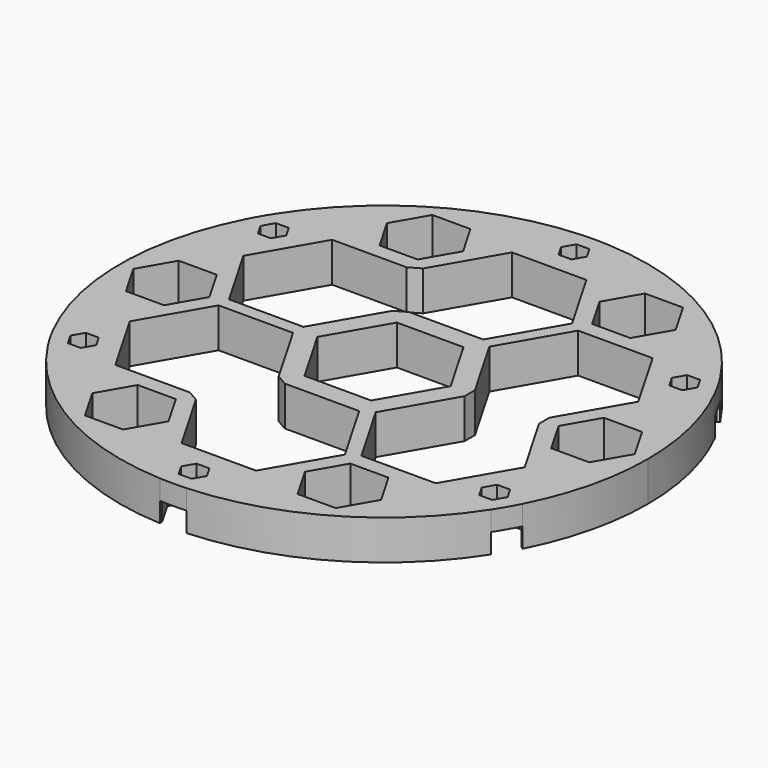
from build123d import *

# Parameters (mm, degrees)
F1_DEPTH = 7.62
F2_DEPTH = 3.81
F3_W     = 14.334742
F3_H     = 2.50825
F4_DEPTH = 25.4


with BuildPart() as f1:
    # F0 (on Top) → F1 (new body)
    with BuildSketch(Plane.XY):
        with BuildLine():
            ThreePointArc((45.221077, -23.145068), (49.385579, -11.903976), (50.8, 0))
            ThreePointArc((50.8, 0), (49.385579, 11.903976), (45.221077, 23.145068))
            Line((45.221077, 23.145068), (44.727325, 22.86))
            Line((44.727325, 22.86), (42.161003, 18.415))
            Line((42.161003, 18.415), (37.02836, 18.415))
            Line((37.02836, 18.415), (34.462038, 22.86))
            Line((34.462038, 22.86), (37.02836, 27.305))
            Line((37.02836, 27.305), (42.161003, 27.305))
            Line((42.161003, 27.305), (42.654755, 27.590068))
            ThreePointArc((42.654755, 27.590068), (25.4, 43.994091), (2.566322, 50.735136))
            Line((2.566322, 50.735136), (2.566322, 50.165))
            Line((2.566322, 50.165), (5.132644, 45.72))
            Line((5.132644, 45.72), (2.566322, 41.275))
            Line((2.566322, 41.275), (-2.566322, 41.275))
            Line((-2.566322, 41.275), (-5.132644, 45.72))
            Line((-5.132644, 45.72), (-2.566322, 50.165))
            Line((-2.566322, 50.165), (-2.566322, 50.735136))
            ThreePointArc((-2.566322, 50.735136), (-25.4, 43.994091), (-42.654755, 27.590068))
            Line((-42.654755, 27.590068), (-42.161003, 27.305))
            Line((-42.161003, 27.305), (-37.02836, 27.305))
            Line((-37.02836, 27.305), (-34.462038, 22.86))
            Line((-34.462038, 22.86), (-37.02836, 18.415))
            Line((-37.02836, 18.415), (-42.161003, 18.415))
            Line((-42.161003, 18.415), (-44.727325, 22.86))
            Line((-44.727325, 22.86), (-45.221077, 23.145068))
            ThreePointArc((-45.221077, 23.145068), (-50.8, 0), (-45.221077, -23.145068))
            Line((-45.221077, -23.145068), (-44.727325, -22.86))
            Line((-44.727325, -22.86), (-42.161003, -18.415))
            Line((-42.161003, -18.415), (-37.02836, -18.415))
            Line((-37.02836, -18.415), (-34.462038, -22.86))
            Line((-34.462038, -22.86), (-37.02836, -27.305))
            Line((-37.02836, -27.305), (-42.161003, -27.305))
            Line((-42.161003, -27.305), (-42.654755, -27.590068))
            ThreePointArc((-42.654755, -27.590068), (-25.4, -43.994091), (-2.566322, -50.735136))
            Line((-2.566322, -50.735136), (-2.566322, -50.165))
            Line((-2.566322, -50.165), (-5.132644, -45.72))
            Line((-5.132644, -45.72), (-2.566322, -41.275))
            Line((-2.566322, -41.275), (2.566322, -41.275))
            Line((2.566322, -41.275), (5.132644, -45.72))
            Line((5.132644, -45.72), (2.566322, -50.165))
            Line((2.566322, -50.165), (2.566322, -50.735136))
            ThreePointArc((2.566322, -50.735136), (25.4, -43.994091), (42.654755, -27.590068))
            Line((42.654755, -27.590068), (42.161003, -27.305))
            Line((42.161003, -27.305), (37.02836, -27.305))
            Line((37.02836, -27.305), (34.462038, -22.86))
            Line((34.462038, -22.86), (37.02836, -18.415))
            Line((37.02836, -18.415), (42.161003, -18.415))
            Line((42.161003, -18.415), (44.727325, -22.86))
            Line((44.727325, -22.86), (45.221077, -23.145068))
        make_face()
        Polygon((-16.797652, -41.794386), (-24.13, -41.794386), (-27.796174, -35.444386), (-24.13, -29.094386), (-16.797652, -29.094386), (-13.131477, -35.444386), align=None, mode=Mode.SUBTRACT)
        Polygon((-7.167371, -39.751), (-14.334741, -27.33675), (-7.167371, -14.9225), (7.167371, -14.9225), (14.334741, -27.33675), (7.167371, -39.751), align=None, mode=Mode.SUBTRACT)
        Polygon((-44.593826, -6.35), (-48.26, 0), (-44.593826, 6.35), (-37.261477, 6.35), (-33.595303, 0), (-37.261477, -6.35), align=None, mode=Mode.SUBTRACT)
        Polygon((-38.009061, -13.668375), (-30.841691, -1.254125), (-16.506949, -1.254125), (-9.339579, -13.668375), (-16.506949, -26.082625), (-30.841691, -26.082625), align=None, mode=Mode.SUBTRACT)
        Polygon((-12.83161, 0), (-6.415805, 11.1125), (6.415805, 11.1125), (12.83161, 0), (6.415805, -11.1125), (-6.415805, -11.1125), align=None, mode=Mode.SUBTRACT)
        Polygon((27.796174, -35.444386), (24.13, -41.794386), (16.797652, -41.794386), (13.131477, -35.444386), (16.797652, -29.094386), (24.13, -29.094386), align=None, mode=Mode.SUBTRACT)
        Polygon((30.841691, -26.082625), (16.506949, -26.082625), (9.339579, -13.668375), (16.506949, -1.254125), (30.841691, -1.254125), (38.009061, -13.668375), align=None, mode=Mode.SUBTRACT)
        Polygon((44.593826, 6.35), (48.26, 0), (44.593826, -6.35), (37.261477, -6.35), (33.595303, 0), (37.261477, 6.35), align=None, mode=Mode.SUBTRACT)
        Polygon((-30.841691, 26.082625), (-16.506949, 26.082625), (-9.339579, 13.668375), (-16.506949, 1.254125), (-30.841691, 1.254125), (-38.009061, 13.668375), align=None, mode=Mode.SUBTRACT)
        Polygon((-24.13, 41.794386), (-16.797652, 41.794386), (-13.131477, 35.444386), (-16.797652, 29.094386), (-24.13, 29.094386), (-27.796174, 35.444386), align=None, mode=Mode.SUBTRACT)
        Polygon((-14.334741, 27.33675), (-7.167371, 39.751), (7.167371, 39.751), (14.334741, 27.33675), (7.167371, 14.9225), (-7.167371, 14.9225), align=None, mode=Mode.SUBTRACT)
        Polygon((38.009061, 13.668375), (30.841691, 1.254125), (16.506949, 1.254125), (9.339579, 13.668375), (16.506949, 26.082625), (30.841691, 26.082625), align=None, mode=Mode.SUBTRACT)
        Polygon((16.797652, 41.794386), (24.13, 41.794386), (27.796174, 35.444386), (24.13, 29.094386), (16.797652, 29.094386), (13.131477, 35.444386), align=None, mode=Mode.SUBTRACT)
        Polygon((5.132644, 45.72), (2.566322, 50.165), (-2.566322, 50.165), (-5.132644, 45.72), (-2.566322, 41.275), (2.566322, 41.275), align=None)
        Polygon((-2.492998, 45.72), (-1.246499, 47.879), (1.246499, 47.879), (2.492998, 45.72), (1.246499, 43.561), (-1.246499, 43.561), align=None, mode=Mode.SUBTRACT)
        Polygon((42.161003, 18.415), (44.727325, 22.86), (42.161003, 27.305), (37.02836, 27.305), (34.462038, 22.86), (37.02836, 18.415), align=None)
        Polygon((38.348182, 20.701), (37.101683, 22.86), (38.348182, 25.019), (40.841181, 25.019), (42.08768, 22.86), (40.841181, 20.701), align=None, mode=Mode.SUBTRACT)
        Polygon((42.161003, -27.305), (44.727325, -22.86), (42.161003, -18.415), (37.02836, -18.415), (34.462038, -22.86), (37.02836, -27.305), align=None)
        Polygon((37.101683, -22.86), (38.348182, -20.701), (40.841181, -20.701), (42.08768, -22.86), (40.841181, -25.019), (38.348182, -25.019), align=None, mode=Mode.SUBTRACT)
        Polygon((-2.566322, -50.165), (2.566322, -50.165), (5.132644, -45.72), (2.566322, -41.275), (-2.566322, -41.275), (-5.132644, -45.72), align=None)
        Polygon((-1.246499, -43.561), (1.246499, -43.561), (2.492998, -45.72), (1.246499, -47.879), (-1.246499, -47.879), (-2.492998, -45.72), align=None, mode=Mode.SUBTRACT)
        Polygon((-44.727325, -22.86), (-42.161003, -27.305), (-37.02836, -27.305), (-34.462038, -22.86), (-37.02836, -18.415), (-42.161003, -18.415), align=None)
        Polygon((-38.348182, -20.701), (-37.101683, -22.86), (-38.348182, -25.019), (-40.841181, -25.019), (-42.08768, -22.86), (-40.841181, -20.701), align=None, mode=Mode.SUBTRACT)
        Polygon((-37.02836, 27.305), (-42.161003, 27.305), (-44.727325, 22.86), (-42.161003, 18.415), (-37.02836, 18.415), (-34.462038, 22.86), align=None)
        Polygon((-37.101683, 22.86), (-38.348182, 20.701), (-40.841181, 20.701), (-42.08768, 22.86), (-40.841181, 25.019), (-38.348182, 25.019), align=None, mode=Mode.SUBTRACT)
        with BuildLine():
            Line((-42.161003, 27.305), (-42.654755, 27.590068))
            ThreePointArc((-42.654755, 27.590068), (-43.994091, 25.4), (-45.221077, 23.145068))
            Line((-45.221077, 23.145068), (-44.727325, 22.86))
            Line((-44.727325, 22.86), (-42.161003, 27.305))
        make_face()
        with BuildLine():
            ThreePointArc((-45.221077, -23.145068), (-43.994091, -25.4), (-42.654755, -27.590068))
            Line((-42.654755, -27.590068), (-42.161003, -27.305))
            Line((-42.161003, -27.305), (-44.727325, -22.86))
            Line((-44.727325, -22.86), (-45.221077, -23.145068))
        make_face()
        with BuildLine():
            ThreePointArc((-2.566322, -50.735136), (0, -50.8), (2.566322, -50.735136))
            Line((2.566322, -50.735136), (2.566322, -50.165))
            Line((2.566322, -50.165), (-2.566322, -50.165))
            Line((-2.566322, -50.165), (-2.566322, -50.735136))
        make_face()
        with BuildLine():
            ThreePointArc((42.654755, -27.590068), (43.994091, -25.4), (45.221077, -23.145068))
            Line((45.221077, -23.145068), (44.727325, -22.86))
            Line((44.727325, -22.86), (42.161003, -27.305))
            Line((42.161003, -27.305), (42.654755, -27.590068))
        make_face()
        with BuildLine():
            Line((44.727325, 22.86), (45.221077, 23.145068))
            ThreePointArc((45.221077, 23.145068), (43.994091, 25.4), (42.654755, 27.590068))
            Line((42.654755, 27.590068), (42.161003, 27.305))
            Line((42.161003, 27.305), (44.727325, 22.86))
        make_face()
        with BuildLine():
            Line((2.566322, 50.165), (2.566322, 50.735136))
            ThreePointArc((2.566322, 50.735136), (0, 50.8), (-2.566322, 50.735136))
            Line((-2.566322, 50.735136), (-2.566322, 50.165))
            Line((-2.566322, 50.165), (2.566322, 50.165))
        make_face()
    extrude(amount=F1_DEPTH)

    # F0 (on Top) → F2 (cut)
    with BuildSketch(Plane.XY):
        Polygon((5.132644, 45.72), (2.566322, 50.165), (-2.566322, 50.165), (-5.132644, 45.72), (-2.566322, 41.275), (2.566322, 41.275), align=None)
        Polygon((-2.492998, 45.72), (-1.246499, 47.879), (1.246499, 47.879), (2.492998, 45.72), (1.246499, 43.561), (-1.246499, 43.561), align=None, mode=Mode.SUBTRACT)
        Polygon((42.161003, 18.415), (44.727325, 22.86), (42.161003, 27.305), (37.02836, 27.305), (34.462038, 22.86), (37.02836, 18.415), align=None)
        Polygon((38.348182, 20.701), (37.101683, 22.86), (38.348182, 25.019), (40.841181, 25.019), (42.08768, 22.86), (40.841181, 20.701), align=None, mode=Mode.SUBTRACT)
        Polygon((42.161003, -27.305), (44.727325, -22.86), (42.161003, -18.415), (37.02836, -18.415), (34.462038, -22.86), (37.02836, -27.305), align=None)
        Polygon((37.101683, -22.86), (38.348182, -20.701), (40.841181, -20.701), (42.08768, -22.86), (40.841181, -25.019), (38.348182, -25.019), align=None, mode=Mode.SUBTRACT)
        Polygon((-2.566322, -50.165), (2.566322, -50.165), (5.132644, -45.72), (2.566322, -41.275), (-2.566322, -41.275), (-5.132644, -45.72), align=None)
        Polygon((-1.246499, -43.561), (1.246499, -43.561), (2.492998, -45.72), (1.246499, -47.879), (-1.246499, -47.879), (-2.492998, -45.72), align=None, mode=Mode.SUBTRACT)
        Polygon((-44.727325, -22.86), (-42.161003, -27.305), (-37.02836, -27.305), (-34.462038, -22.86), (-37.02836, -18.415), (-42.161003, -18.415), align=None)
        Polygon((-38.348182, -20.701), (-37.101683, -22.86), (-38.348182, -25.019), (-40.841181, -25.019), (-42.08768, -22.86), (-40.841181, -20.701), align=None, mode=Mode.SUBTRACT)
        Polygon((-37.02836, 27.305), (-42.161003, 27.305), (-44.727325, 22.86), (-42.161003, 18.415), (-37.02836, 18.415), (-34.462038, 22.86), align=None)
        Polygon((-37.101683, 22.86), (-38.348182, 20.701), (-40.841181, 20.701), (-42.08768, 22.86), (-40.841181, 25.019), (-38.348182, 25.019), align=None, mode=Mode.SUBTRACT)
        with BuildLine():
            ThreePointArc((42.654755, -27.590068), (43.994091, -25.4), (45.221077, -23.145068))
            Line((45.221077, -23.145068), (44.727325, -22.86))
            Line((44.727325, -22.86), (42.161003, -27.305))
            Line((42.161003, -27.305), (42.654755, -27.590068))
        make_face()
        with BuildLine():
            ThreePointArc((-2.566322, -50.735136), (0, -50.8), (2.566322, -50.735136))
            Line((2.566322, -50.735136), (2.566322, -50.165))
            Line((2.566322, -50.165), (-2.566322, -50.165))
            Line((-2.566322, -50.165), (-2.566322, -50.735136))
        make_face()
        with BuildLine():
            ThreePointArc((-45.221077, -23.145068), (-43.994091, -25.4), (-42.654755, -27.590068))
            Line((-42.654755, -27.590068), (-42.161003, -27.305))
            Line((-42.161003, -27.305), (-44.727325, -22.86))
            Line((-44.727325, -22.86), (-45.221077, -23.145068))
        make_face()
        with BuildLine():
            Line((-42.161003, 27.305), (-42.654755, 27.590068))
            ThreePointArc((-42.654755, 27.590068), (-43.994091, 25.4), (-45.221077, 23.145068))
            Line((-45.221077, 23.145068), (-44.727325, 22.86))
            Line((-44.727325, 22.86), (-42.161003, 27.305))
        make_face()
        with BuildLine():
            Line((2.566322, 50.165), (2.566322, 50.735136))
            ThreePointArc((2.566322, 50.735136), (0, 50.8), (-2.566322, 50.735136))
            Line((-2.566322, 50.735136), (-2.566322, 50.165))
            Line((-2.566322, 50.165), (2.566322, 50.165))
        make_face()
        with BuildLine():
            Line((44.727325, 22.86), (45.221077, 23.145068))
            ThreePointArc((45.221077, 23.145068), (43.994091, 25.4), (42.654755, 27.590068))
            Line((42.654755, 27.590068), (42.161003, 27.305))
            Line((42.161003, 27.305), (44.727325, 22.86))
        make_face()
    extrude(amount=F2_DEPTH, mode=Mode.SUBTRACT)

    # F3 (on face) → F4 (cut)
    with BuildSketch(Plane.XY.offset(7.62)):
        Polygon((-7.167371, 14.9225), (-14.334741, 27.33675), (-16.506949, 26.082625), (-9.339579, 13.668375), align=None)
        Polygon((-14.334741, -27.33675), (-7.167371, -14.9225), (-9.339579, -13.668375), (-16.506949, -26.082625), align=None)
        with Locations((23.67432, 0)):
            Rectangle(F3_W, F3_H)
    extrude(amount=-F4_DEPTH, mode=Mode.SUBTRACT)


solid = f1.part
